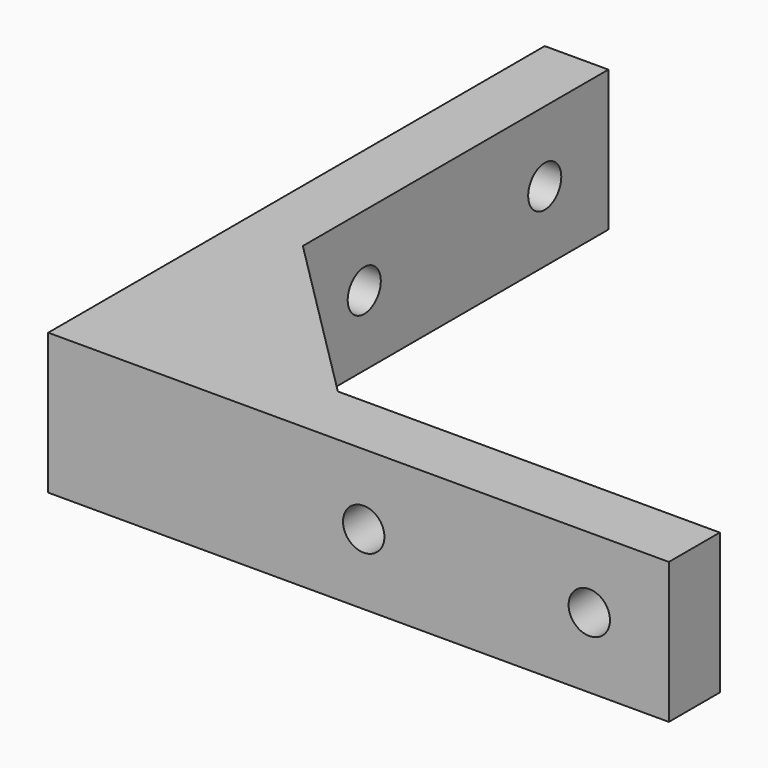
from build123d import *

# Parameters (mm, degrees)
PAD_DEPTH       = 8.85
SKETCH001_R     = 2.6
POCKET_DEPTH    = 78.001
SKETCH002_R     = 2.6
POCKET001_DEPTH = 78.001


with BuildPart() as part:
    # Sketch → Pad (new body, symmetric)
    with BuildSketch(Plane.XY):
        Polygon((0, 78), (0, 0), (78, 0), (78, 8), (30, 8), (8, 30), (8, 78), align=None)
    extrude(amount=PAD_DEPTH, both=True)

    # Sketch001 → Pocket (cut, through all)
    with BuildSketch(Plane.XZ):
        with Locations((39.65, 0)):
            Circle(SKETCH001_R)
        with Locations((68, 0)):
            Circle(SKETCH001_R)
    extrude(amount=-POCKET_DEPTH, mode=Mode.SUBTRACT)

    # Sketch002 → Pocket001 (cut, through all)
    with BuildSketch(Plane.YZ):
        with Locations((39.65, 0)):
            Circle(SKETCH002_R)
        with Locations((68, 0)):
            Circle(SKETCH002_R)
    extrude(amount=POCKET001_DEPTH, mode=Mode.SUBTRACT)


solid = part.part
